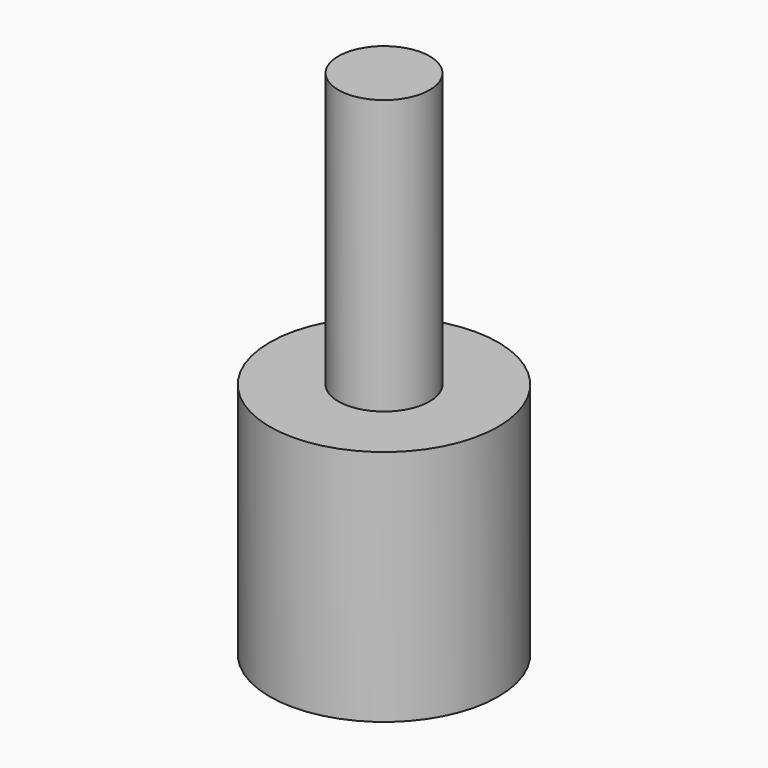
from build123d import *

# Parameters (mm, degrees)
F0_R     = 12.5
F1_DEPTH = 26
F2_R     = 5
F3_DEPTH = 26
F4_R     = 5
F5_DEPTH = 30


with BuildPart() as f1:
    # F0 (on Top) → F1 (new body)
    with BuildSketch(Plane.XY):
        Circle(F0_R)
    extrude(amount=F1_DEPTH)

    # F2 (on face) → F3 (cut)
    with BuildSketch(Plane.XY.offset(26)):
        Circle(F2_R)
    extrude(amount=-F3_DEPTH, mode=Mode.SUBTRACT)


with BuildPart() as f5:
    # F4 (on face) → F5 (new body)
    with BuildSketch(Plane.XY.offset(26)):
        Circle(F4_R)
    extrude(amount=F5_DEPTH)


solid = Compound([f1.part, f5.part])
